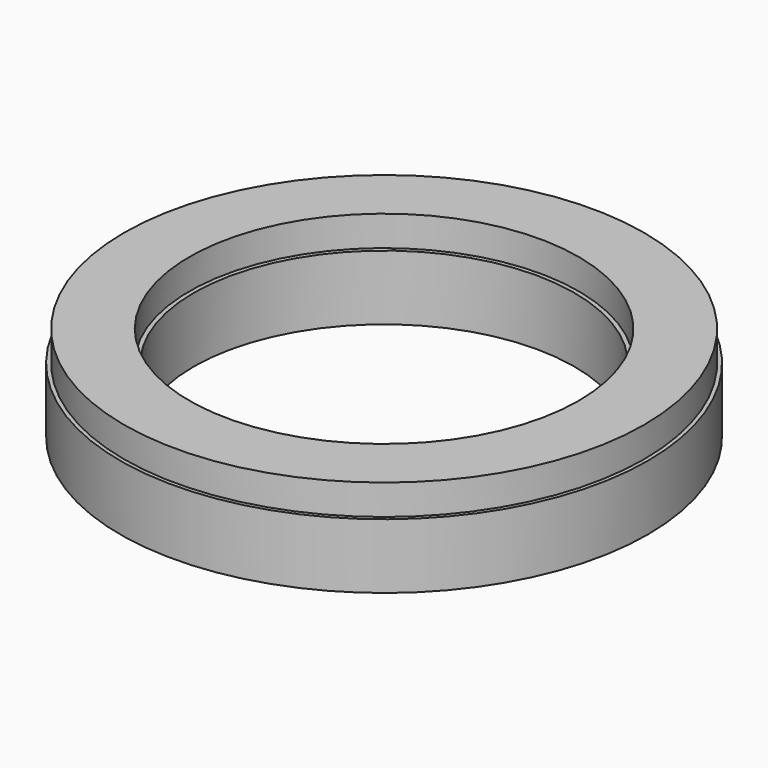
from build123d import *

# Parameters (mm, degrees)
F0_R     = 60.1
F0_R_2   = 45
F1_DEPTH = 22
F0_R_3   = 61
F2_DEPTH = 15
F0_R_4   = 44
F3_DEPTH = 15


with BuildPart() as f1:
    # F0 (on Top) → F1 (new body)
    with BuildSketch(Plane.XY):
        Circle(F0_R)
        Circle(F0_R_2, mode=Mode.SUBTRACT)
    extrude(amount=F1_DEPTH)

    # F0 (on Top) → F2 (join)
    with BuildSketch(Plane.XY):
        Circle(F0_R_3)
        Circle(F0_R, mode=Mode.SUBTRACT)
    extrude(amount=F2_DEPTH)

    # F0 (on Top) → F3 (join)
    with BuildSketch(Plane.XY):
        Circle(F0_R_2)
        Circle(F0_R_4, mode=Mode.SUBTRACT)
    extrude(amount=F3_DEPTH)


solid = f1.part
